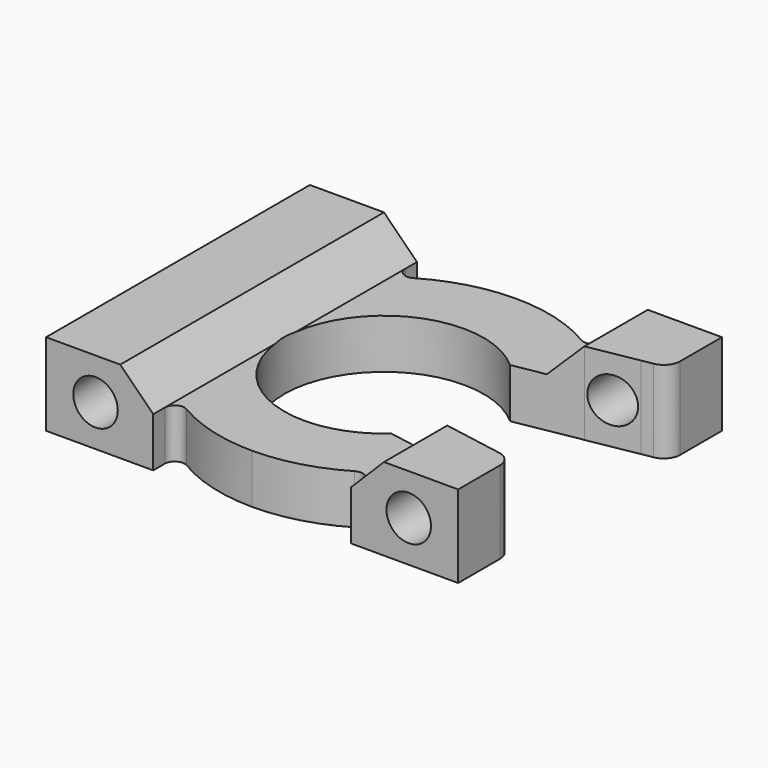
from build123d import *

# Parameters (mm, degrees)
F0_W     = 1.5
F0_H     = 20
F0_W_2   = 3
F1_DEPTH = 5
F2_R     = 1.35
F3_DEPTH = 25
F5_DEPTH = 25
F6_R     = 0.6


with BuildPart() as f1:
    # F0 (on Top) → F1 (new body)
    with BuildSketch(Plane.XY):
        with BuildLine():
            ThreePointArc((4.0438224491, -4.5), (-6.05, 0), (4.0438224491, 4.5))
            Line((4.0438224491, 4.5), (8, 5.201766997))
            Line((8, 5.201766997), (8, 10))
            Line((8, 10), (-8, 10))
            Line((-8, 10), (-8, -10))
            Line((-8, -10), (8, -10))
            Line((8, -10), (8, -5.201766997))
            Line((8, -5.201766997), (4.0438224491, -4.5))
        make_face()
        Polygon((8, 10), (8, 5.201766997), (11, 5.7339223323), (11, 10), align=None)
        with BuildLine():
            Line((11, 10), (11, 5.7339223323))
            Line((11, 5.7339223323), (11.6746585367, 5.8535967123))
            ThreePointArc((11.6746585367, 5.8535967123), (12.2663741047, 6.1958312477), (12.5, 6.8382257772))
            Line((12.5, 6.8382257772), (12.5, 10))
            Line((12.5, 10), (11, 10))
        make_face()
        with BuildLine():
            Line((11.6746585367, -5.8535967123), (11, -5.7339223323))
            Line((11, -5.7339223323), (11, -10))
            Line((11, -10), (12.5, -10))
            Line((12.5, -10), (12.5, -6.8382257772))
            ThreePointArc((12.5, -6.8382257772), (12.2663741047, -6.1958312477), (11.6746585367, -5.8535967123))
        make_face()
        Polygon((11, -5.7339223323), (8, -5.201766997), (8, -10), (11, -10), align=None)
        with Locations((-11.75, 0)):
            Rectangle(F0_W, F0_H)
        with Locations((-9.5, 0)):
            Rectangle(F0_W_2, F0_H)
    extrude(amount=F1_DEPTH)

    # F2 (on face) → F3 (cut)
    with BuildSketch(Plane.XZ.offset(10)):
        with Locations((-9.5, 2.5)):
            Circle(F2_R)
        with Locations((9.5, 2.5)):
            Circle(F2_R)
        Polygon((8, 5), (0, 5), (-8, 5), (-6, 3), (0, 3), (6, 3), align=None)
    extrude(amount=-F3_DEPTH, mode=Mode.SUBTRACT)

    # F4 (on face) → F5 (cut)
    with BuildSketch(Plane.XY.offset(3)):
        with BuildLine():
            ThreePointArc((5.97e-08, 10), (3.1622776885, 9.4868329711), (6, 8))
            Line((6, 8), (6, 10))
            Line((6, 10), (5.97e-08, 10))
        make_face()
        with BuildLine():
            ThreePointArc((-6, 8), (-3.1622776319, 9.4868329899), (5.97e-08, 10))
            Line((5.97e-08, 10), (-6, 10))
            Line((-6, 10), (-6, 8))
        make_face()
        with BuildLine():
            Line((-6, -10), (5.97e-08, -10))
            ThreePointArc((5.97e-08, -10), (-3.1622776319, -9.4868329899), (-6, -8))
            Line((-6, -8), (-6, -10))
        make_face()
        with BuildLine():
            Line((5.97e-08, -10), (6, -10))
            Line((6, -10), (6, -8))
            ThreePointArc((6, -8), (3.1622776885, -9.4868329711), (5.97e-08, -10))
        make_face()
    extrude(amount=-F5_DEPTH, mode=Mode.SUBTRACT)

    # F6
    f6_edges = [f1.edges().sort_by_distance(p)[0] for p in [
        (-6, -8, 1.5),
        (-6, 8, 1.5),
        (6, 8, 1.5),
        (6, -8, 1.5),
    ]]
    fillet(f6_edges, radius=F6_R)


solid = f1.part
